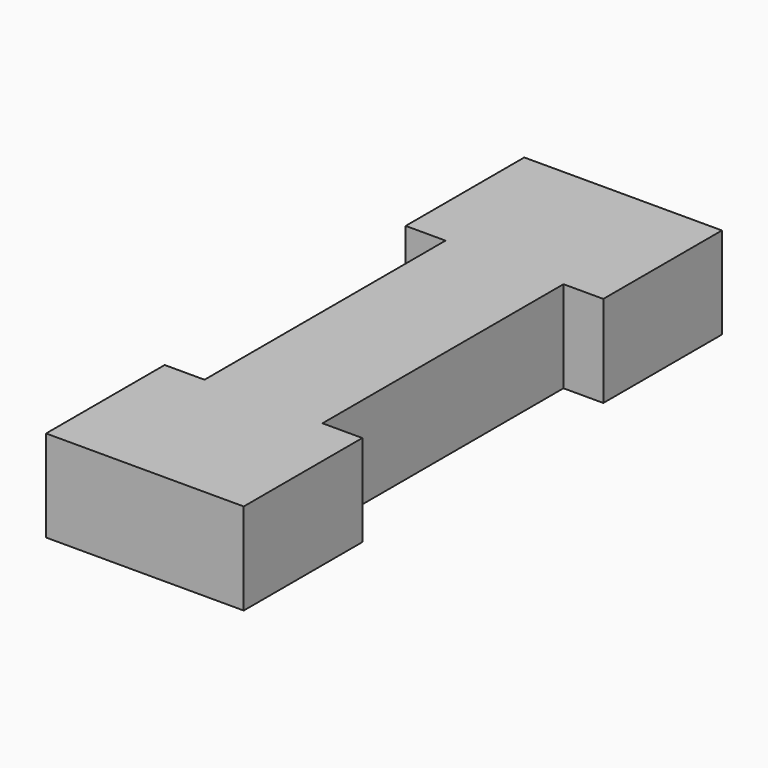
from build123d import *

# Parameters (mm, degrees)
F0_W     = 1.8796
F0_H     = 4.8006
F1_DEPTH = 2.921


with BuildPart() as f1:
    # F0 (on Top) → F1 (new body)
    with BuildSketch(Plane.XY):
        Polygon((3.1496, -2.3622), (3.1496, 2.3622), (1.8796, 2.3622), (0, 2.3622), (-1.8796, 2.3622), (-3.1496, 2.3622), (-3.1496, -2.3622), align=None)
        with Locations((0.9398, 4.7625)):
            Rectangle(F0_W, F0_H)
        with Locations((-0.9398, 4.7625)):
            Rectangle(F0_W, F0_H)
    extrude(amount=F1_DEPTH)

    # F2: F1 across face


with BuildPart() as f1_1:
    add(f1.part)
    add(f1.part.mirror(Plane(origin=(0, 7.1628, 1.4605), x_dir=(-1, 0, 0), z_dir=(0, 1, 0))))


solid = f1_1.part
